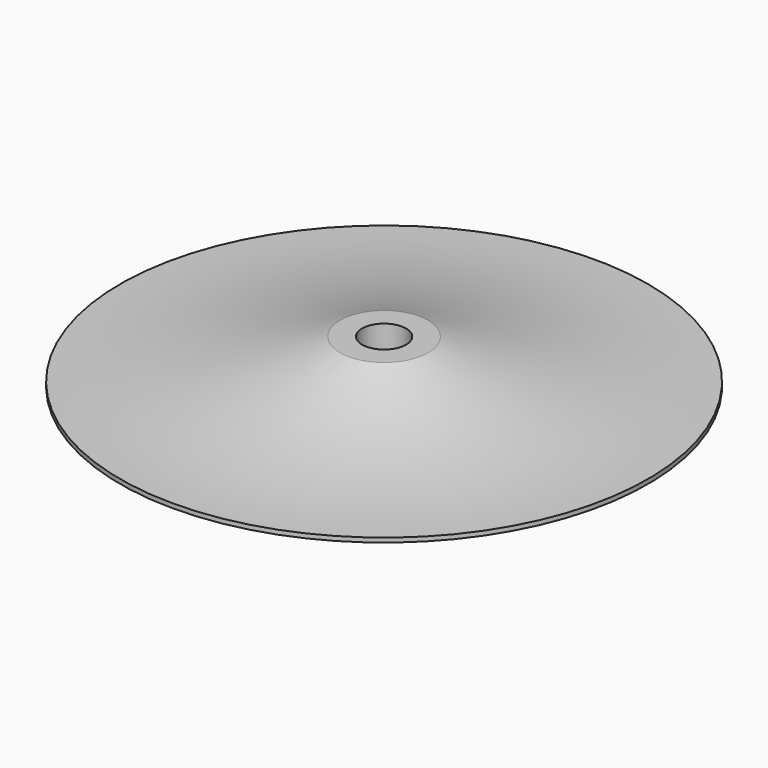
from build123d import *


with BuildPart() as f1:
    # F0 (on Right) → F1 (revolve)
    with BuildSketch(Plane.YZ):
        with BuildLine():
            Line((-60, 0), (-6, 0))
            Line((-6, 0), (-6, 1))
            Line((-6, 1), (-5, 1))
            Line((-5, 1), (-5, 10))
            Line((-5, 10), (-10, 10))
            ThreePointArc((-10, 10), (-34.598228, 3.267936), (-60, 1))
            Line((-60, 1), (-60, 0))
        make_face()
    revolve(axis=Axis((0, 0, 11.883901), (0, 0, 1)))


solid = f1.part
